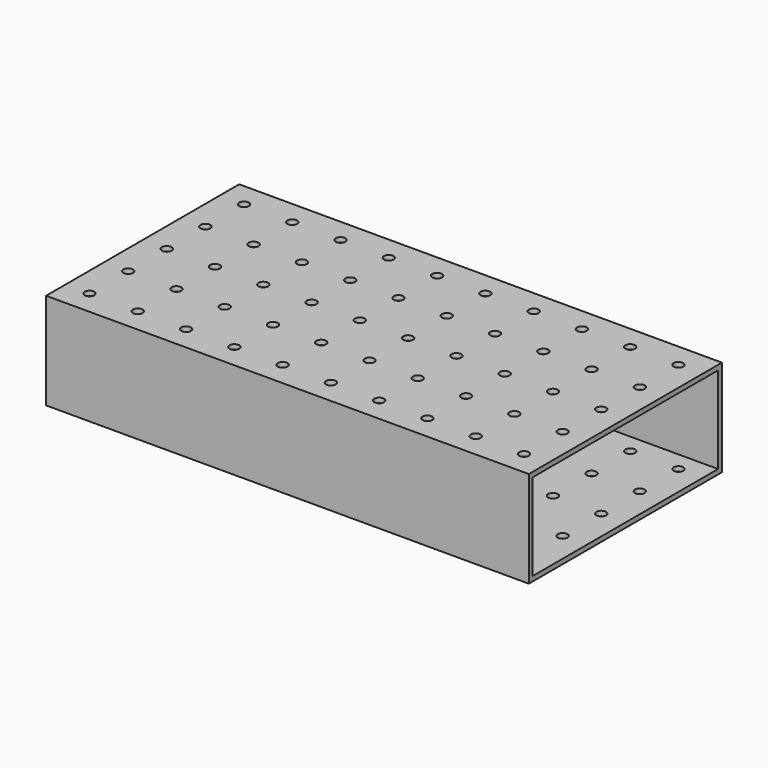
from build123d import *

# Parameters (mm, degrees)
F0_W     = 254
F0_H     = 127
F1_DEPTH = 50.8
F2_W     = 121.92
F2_H     = 45.72
F3_DEPTH = 254.001
F5_D     = 5.1054


with BuildPart() as f1:
    # F0 (on Top) → F1 (new body)
    with BuildSketch(Plane.XY):
        with Locations((3.112221, 47.606194)):
            Rectangle(F0_W, F0_H)
    extrude(amount=F1_DEPTH)

    # F2 (on face) → F3 (cut, through all)
    with BuildSketch(Plane.YZ.offset(130.112221)):
        with Locations((47.606194, 25.4)):
            Rectangle(F2_W, F2_H)
    extrude(amount=-F3_DEPTH, mode=Mode.SUBTRACT)

    # F5 (through all)
    with Locations(Plane.XY.offset(50.8)):
        with Locations((-60.387779, 47.606194), (15.812221, 73.006194), (41.212221, 98.406194), (-111.187779, 47.606194), (-34.987779, 73.006194), (-60.387779, 22.206194), (15.812221, 47.606194), (41.212221, 73.006194), (-85.787779, 73.006194), (-111.187779, 22.206194), (-9.587779, 98.406194), (-34.987779, 47.606194), (-60.387779, 98.406194), (41.212221, -3.193806), (66.612221, 47.606194), (-85.787779, -3.193806), (-9.587779, 22.206194), (-60.387779, -3.193806), (15.812221, 22.206194), (92.012221, -3.193806), (41.212221, 47.606194), (66.612221, 98.406194), (-111.187779, -3.193806), (-85.787779, 47.606194), (-34.987779, 22.206194), (-9.587779, 73.006194), (66.612221, 73.006194), (66.612221, 22.206194), (117.412221, 98.406194), (117.412221, 73.006194), (117.412221, 47.606194), (117.412221, 22.206194), (117.412221, -3.193806), (92.012221, 98.406194), (92.012221, 73.006194), (92.012221, 47.606194), (92.012221, 22.206194), (-111.187779, 98.406194), (-9.587779, -3.193806), (-85.787779, 98.406194), (15.812221, -3.193806), (-60.387779, 73.006194), (15.812221, 98.406194), (41.212221, 22.206194), (-85.787779, 22.206194), (-9.587779, 47.606194), (-34.987779, -3.193806), (66.612221, -3.193806), (-111.187779, 73.006194), (-34.987779, 98.406194)):
            Hole(F5_D / 2)


solid = f1.part
